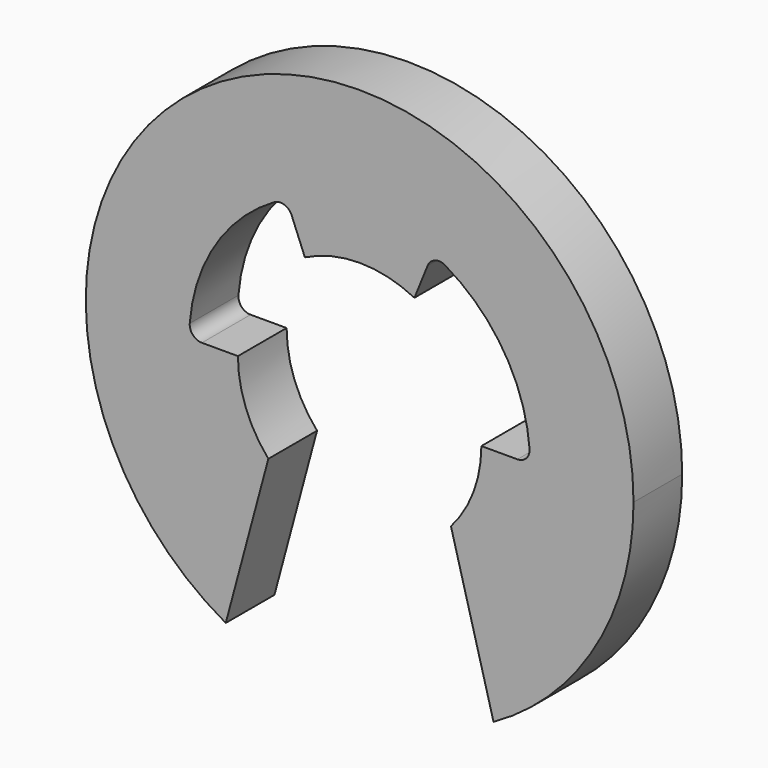
from build123d import *

# Parameters (mm, degrees)
F1_DEPTH = 1
F2_R     = 0.2


with BuildPart() as f1:
    # F0 (on Front) → F1 (new body)
    with BuildSketch(Plane.XZ):
        with BuildLine():
            Line((2.8, 0), (2, 0))
            ThreePointArc((2, 0), (1.870829, -0.707107), (1.5, -1.322876))
            Line((1.5, -1.322876), (2.2, -3.925557))
            ThreePointArc((2.2, -3.925557), (3.882654, -2.274863), (4.5, 0))
            ThreePointArc((4.5, 0), (-2.274863, 3.882654), (-2.2, -3.925557))
            Line((-2.2, -3.925557), (-1.5, -1.322876))
            ThreePointArc((-1.5, -1.322876), (-1.870829, -0.707107), (-2, 0))
            Line((-2, 0), (-2.8, 0))
            ThreePointArc((-2.8, 0), (-2.366384, 1.495757), (-1.2, 2.527677))
            Line((-1.2, 2.527677), (-0.9, 1.786057))
            ThreePointArc((-0.9, 1.786057), (0, 2), (0.9, 1.786057))
            Line((0.9, 1.786057), (1.2, 2.527677))
            ThreePointArc((1.2, 2.527677), (2.366384, 1.495757), (2.8, 0))
        make_face()
    extrude(amount=F1_DEPTH)

    # F2
    f2_edges = [f1.edges().sort_by_distance(p)[0] for p in [
        (-1.2, -0.5, 2.527677),
        (1.2, -0.5, 2.527677),
        (2.8, -0.5, 0),
        (-2.8, -0.5, 0),
    ]]
    fillet(f2_edges, radius=F2_R)


solid = f1.part
